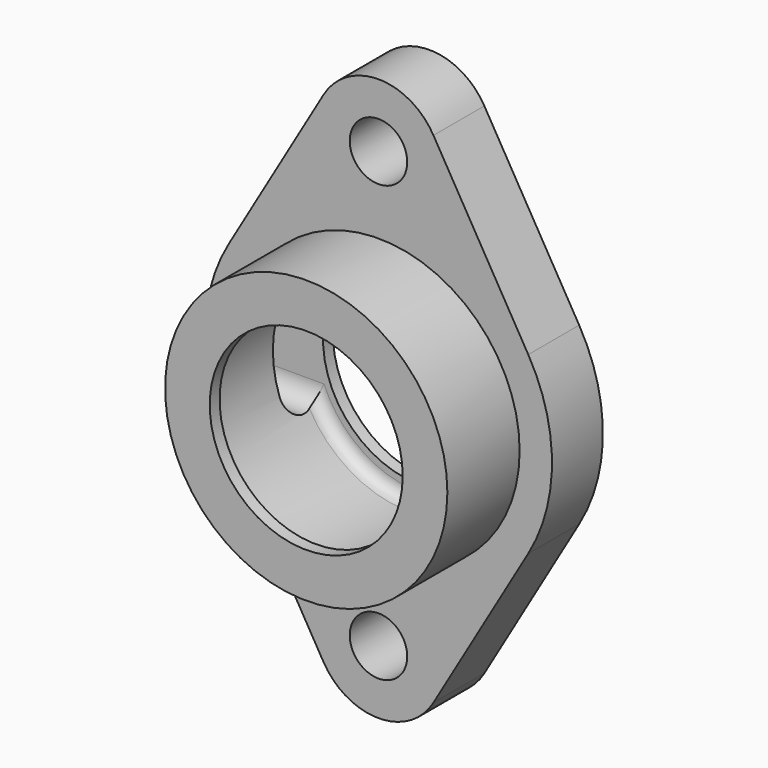
from build123d import *

# Parameters (mm, degrees)
F0_R     = 34.925
F0_R_2   = 23.876
F1_DEPTH = 38.1
F0_R_3   = 7.112
F2_DEPTH = 15.748
F4_DEPTH = 42.927


with BuildPart() as f1:
    # F0 (on Front) → F1 (new body)
    with BuildSketch(Plane.XZ):
        Circle(F0_R)
        Circle(F0_R_2, mode=Mode.SUBTRACT)
    extrude(amount=F1_DEPTH)

    # F0 (on Front) → F2 (join)
    with BuildSketch(Plane.XZ):
        with BuildLine():
            Line((-13.59501, 61.796283), (-37.057366, 21.665481))
            ThreePointArc((-37.057366, 21.665481), (-42.926, 0), (-37.057366, -21.665481))
            Line((-37.057366, -21.665481), (-13.59501, -61.796283))
            ThreePointArc((-13.59501, -61.796283), (0, -69.596), (13.59501, -61.796283))
            Line((13.59501, -61.796283), (37.057366, -21.665481))
            ThreePointArc((37.057366, -21.665481), (42.926, 0), (37.057366, 21.665481))
            Line((37.057366, 21.665481), (13.59501, 61.796283))
            ThreePointArc((13.59501, 61.796283), (0, 69.596), (-13.59501, 61.796283))
        make_face()
        with Locations((0, -53.848)):
            Circle(F0_R_3, mode=Mode.SUBTRACT)
        Circle(F0_R, mode=Mode.SUBTRACT)
        with Locations((0, 53.848)):
            Circle(F0_R_3, mode=Mode.SUBTRACT)
    extrude(amount=F2_DEPTH)

    # F3 (on Right) → F4 (cut, through all)
    with BuildSketch(Plane.YZ):
        with BuildLine():
            ThreePointArc((-12.7, 9.652), (-7.874, 4.826), (-3.048, 9.652))
            ThreePointArc((-3.048, 9.652), (-7.874, 14.478), (-12.7, 9.652))
        make_face()
        with BuildLine():
            Line((-3.048, -9.652), (-3.048, 9.652))
            ThreePointArc((-3.048, 9.652), (-7.874, 4.826), (-12.7, 9.652))
            Line((-12.7, 9.652), (-12.7, -9.652))
            ThreePointArc((-12.7, -9.652), (-7.874, -4.826), (-3.048, -9.652))
        make_face()
        with BuildLine():
            ThreePointArc((-12.7, -9.652), (-7.874, -14.478), (-3.048, -9.652))
            ThreePointArc((-3.048, -9.652), (-7.874, -4.826), (-12.7, -9.652))
        make_face()
    extrude(amount=-F4_DEPTH, mode=Mode.SUBTRACT)

    # F5 (on Top) → F6 (revolve, cut)
    with BuildSketch(Plane.XY):
        with BuildLine():
            Line((25.527, -3.048), (0, -3.048))
            Line((0, -3.048), (0, -35.052))
            Line((0, -35.052), (25.527, -35.052))
            ThreePointArc((25.527, -35.052), (27.682261, -34.159261), (28.575, -32.004))
            Line((28.575, -32.004), (28.575, -6.096))
            ThreePointArc((28.575, -6.096), (27.682261, -3.940739), (25.527, -3.048))
        make_face()
    revolve(axis=Axis((0, -18.058193, 0), (0, -1, 0)), mode=Mode.SUBTRACT)


solid = f1.part
